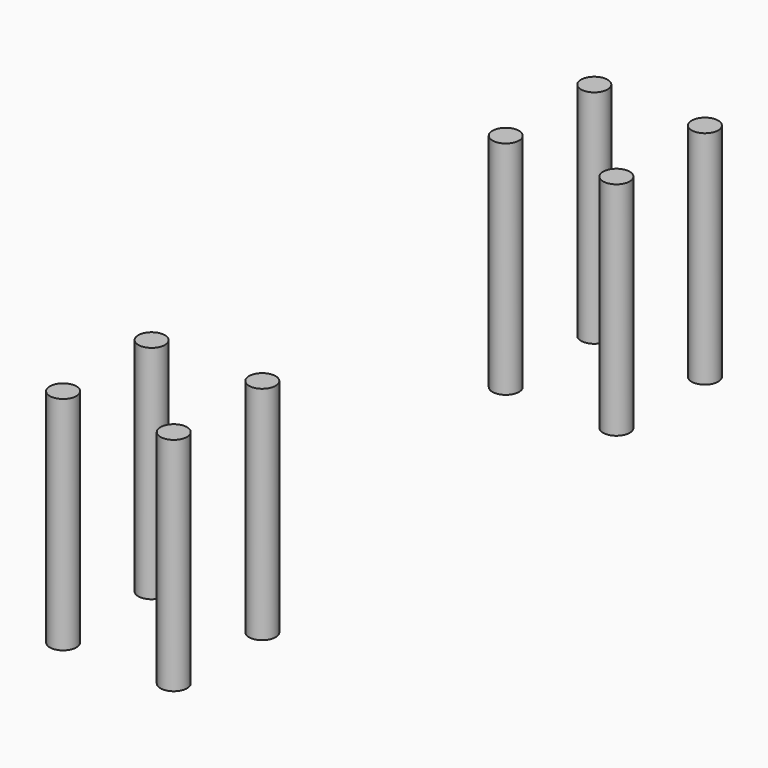
from build123d import *

# Parameters (mm, degrees)
CYLINDER014_R       = 1.2
CYLINDER014_DEPTH   = 20
ARRAY001007_X_COUNT = 2
ARRAY001007_X_PITCH = 10
ARRAY001007_Y_COUNT = 2
ARRAY001007_Y_PITCH = 10
ARRAY001008_Y_COUNT = 2
ARRAY001008_Y_PITCH = 50


with BuildPart() as part:
    # Cylinder014 → Cylinder014 (new body)
    with BuildSketch(Plane(origin=(-5, -5, -5), x_dir=(1, 0, 0), z_dir=(0, 0, 1))):
        Circle(CYLINDER014_R)
    extrude(amount=CYLINDER014_DEPTH)

    # Array001007 X: part ×2


with BuildPart() as part_1:
    add(part.part)
    with Locations(*[(i * ARRAY001007_X_PITCH, 0, 0) for i in range(1, ARRAY001007_X_COUNT)]):
        add(part.part)

    # Array001007 Y: part ×2


with BuildPart() as part_2:
    add(part_1.part)
    with Locations(*[(0, i * ARRAY001007_Y_PITCH, 0) for i in range(1, ARRAY001007_Y_COUNT)]):
        add(part_1.part)


with BuildPart() as part_3:
    # Array001007 placement: moved
    add(part_2.part.moved(Location((14, 14, 0))))

    # Array001008 Y: part ×2


with BuildPart() as part_4:
    add(part_3.part)
    with Locations(*[(0, i * ARRAY001008_Y_PITCH, 0) for i in range(1, ARRAY001008_Y_COUNT)]):
        add(part_3.part)


solid = part_4.part
